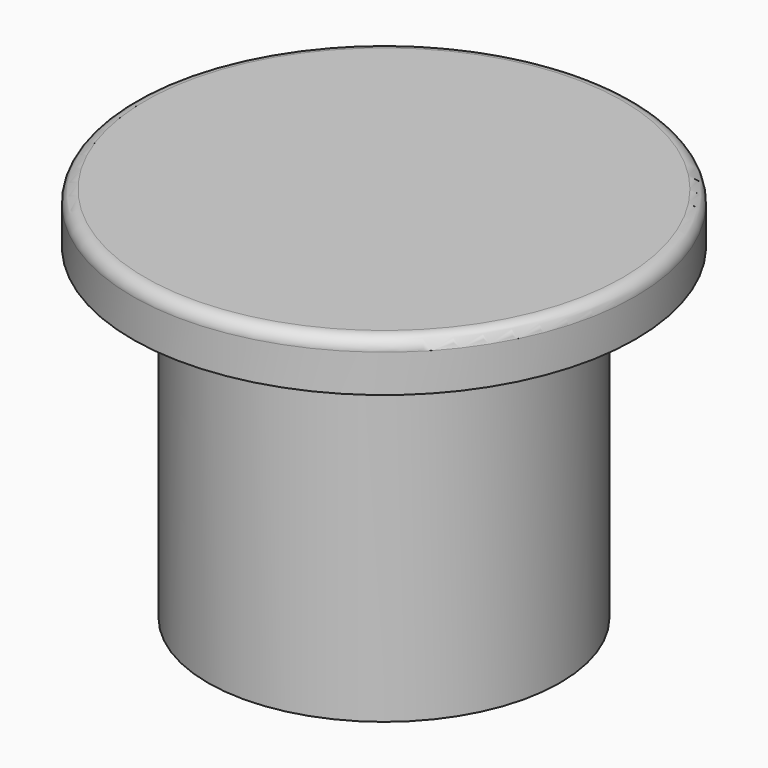
from build123d import *

# Parameters (mm, degrees)
F0_R     = 4.445
F1_DEPTH = 9.525
F2_R     = 6.35
F2_R_2   = 4.445
F3_DEPTH = 1.27
F4_R     = 0.3175


with BuildPart() as f1:
    # F0 (on Top) → F1 (new body)
    with BuildSketch(Plane.XY):
        Circle(F0_R)
    extrude(amount=F1_DEPTH)

    # F2 (on face) → F3 (join)
    with BuildSketch(Plane.XY.offset(9.525)):
        Circle(F2_R)
        Circle(F2_R_2, mode=Mode.SUBTRACT)
    extrude(amount=-F3_DEPTH)

    # F4
    f4_edges = [f1.edges().sort_by_distance(p)[0] for p in [
        (-6.35, 0, 9.525),
    ]]
    fillet(f4_edges, radius=F4_R)


solid = f1.part
